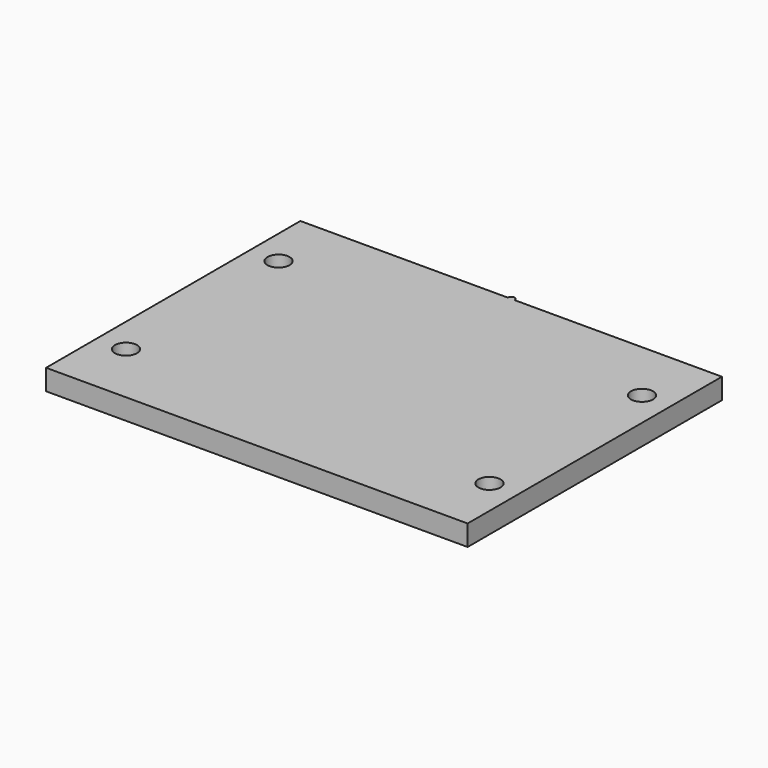
from build123d import *

# Parameters (mm, degrees)
F0_R     = 1.6
F1_DEPTH = 3


with BuildPart() as f1:
    # F0 (on Top) → F1 (new body)
    with BuildSketch(Plane.XY):
        with BuildLine():
            ThreePointArc((-0.5, 23), (0, 22.5), (0.5, 23))
            Line((0.5, 23), (-0.5, 23))
        make_face()
        with BuildLine():
            Line((-0.5, 23), (0.5, 23))
            ThreePointArc((0.5, 23), (0, 23.5), (-0.5, 23))
        make_face()
        with BuildLine():
            Line((30.5, 23), (0.5, 23))
            ThreePointArc((0.5, 23), (0, 22.5), (-0.5, 23))
            Line((-0.5, 23), (-30.5, 23))
            Line((-30.5, 23), (-30.5, -23))
            Line((-30.5, -23), (30.5, -23))
            Line((30.5, -23), (30.5, 23))
        make_face()
        with Locations((-26.3, -13.8)):
            Circle(F0_R, mode=Mode.SUBTRACT)
        with Locations((26.3, -13.8)):
            Circle(F0_R, mode=Mode.SUBTRACT)
        with Locations((-26.3, 13.8)):
            Circle(F0_R, mode=Mode.SUBTRACT)
        with Locations((26.3, 13.8)):
            Circle(F0_R, mode=Mode.SUBTRACT)
    extrude(amount=F1_DEPTH)


solid = f1.part
